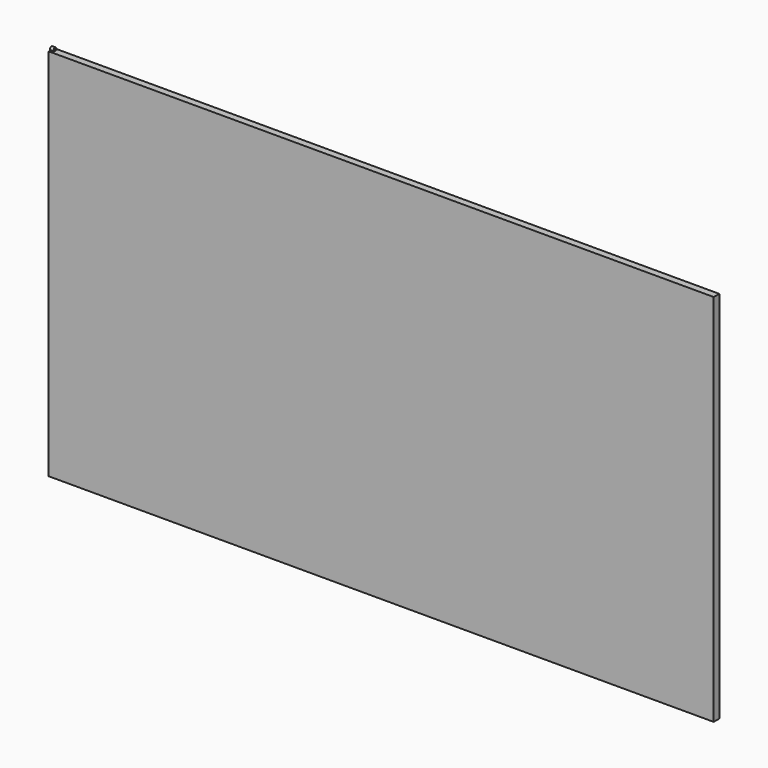
from build123d import *

# Parameters (mm, degrees)
F0_W     = 2438.4
F0_H     = 1371.6
F1_DEPTH = 25.4
F2_R     = 3.81
F3_DEPTH = 12.7


with BuildPart() as f1:
    # F0 (on Front) → F1 (new body)
    with BuildSketch(Plane.XZ):
        with Locations((315.153241, 667.00529)):
            Rectangle(F0_W, F0_H)
    extrude(amount=F1_DEPTH)


with BuildPart() as f3:
    # F2 (on face) → F3 (new body)
    with BuildSketch(Plane(origin=(-904.046759, 0, 0), x_dir=(0, -1, 0), z_dir=(-1, 0, 0))):
        with BuildLine():
            Line((8.89, 1352.80529), (16.51, 1352.80529))
            ThreePointArc((16.51, 1352.80529), (12.7, 1364.23529), (8.89, 1352.80529))
        make_face()
        with Locations((12.7, 1357.88529)):
            Circle(F2_R, mode=Mode.SUBTRACT)
    extrude(amount=-F3_DEPTH)


solid = Compound([f1.part, f3.part])
